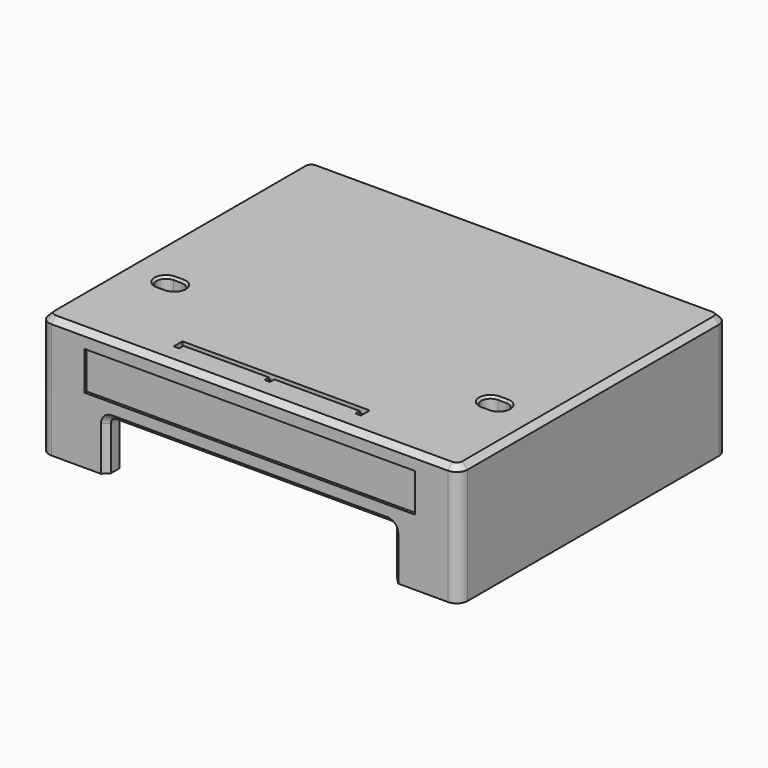
from build123d import *

# Parameters (mm, degrees)
SKETCH041_W              = 76
SKETCH041_H              = 61
PAD012_DEPTH             = 22
POCKET029_DEPTH          = 20
PAD013_DEPTH             = 17
POCKET030_DEPTH          = 22.001
SKETCH045_W              = 52
SKETCH045_H              = 3
PAD014_DEPTH             = 13
SKETCH046_W              = 19.5
SKETCH046_H              = 3
PAD015_DEPTH             = 2
FILLET007014_R           = 2
FILLET007015_R           = 1
POCKET041_DEPTH          = 5
CHAMFER013004014019_SIZE = 1
CHAMFER013004014020_SIZE = 1
CHAMFER013004014021_SIZE = 0.4
POCKET042_DEPTH          = 1
SKETCH061_W              = 60
SKETCH061_H              = 7
POCKET043_DEPTH          = 0.5


with BuildPart() as part:
    # Sketch041 → Pad012 (new body)
    with BuildSketch(Plane.XY):
        with Locations((0, 2.5)):
            Rectangle(SKETCH041_W, SKETCH041_H)
    extrude(amount=PAD012_DEPTH)

    # Sketch042 (on DatumPlane) → Pocket029 (cut)
    with BuildSketch(Plane.XY):
        Polygon((-26, -28), (-26, -25), (-35, -25), (-35, 30), (35, 30), (35, -25), (26, -25), (26, -28), align=None)
    extrude(amount=POCKET029_DEPTH, mode=Mode.SUBTRACT)

    # Sketch043 (on DatumPlane) → Pad013 (join)
    with BuildSketch(Plane.XY.offset(22)):
        with BuildLine():
            ThreePointArc((-28.71, -12.7075), (-25.21, -9.2075), (-28.71, -5.7075))
            Line((-28.71, -5.7075), (-35.71, -5.7075))
            Line((-35.71, -5.7075), (-35.71, -12.7075))
            Line((-35.71, -12.7075), (-28.71, -12.7075))
        make_face()
        with BuildLine():
            ThreePointArc((28.71, -5.7075), (25.21, -9.2075), (28.71, -12.7075))
            Line((35.71, -12.7075), (28.71, -12.7075))
            Line((35.71, -5.7075), (35.71, -12.7075))
            Line((28.71, -5.7075), (35.71, -5.7075))
        make_face()
    extrude(amount=-PAD013_DEPTH)

    # Sketch044 (on DatumPlane) → Pocket030 (cut, through all)
    with BuildSketch(Plane.XY.offset(22)):
        with BuildLine():
            ThreePointArc((-30.21, -7.5075), (-31.91, -9.2075), (-30.21, -10.9075))
            Line((-30.21, -10.9075), (-28.71, -10.9075))
            ThreePointArc((-28.71, -10.9075), (-27.01, -9.2075), (-28.71, -7.5075))
            Line((-30.21, -7.5075), (-28.71, -7.5075))
        make_face()
        with BuildLine():
            ThreePointArc((28.71, -7.5075), (27.01, -9.2075), (28.71, -10.9075))
            Line((28.71, -10.9075), (30.21, -10.9075))
            ThreePointArc((30.21, -10.9075), (31.91, -9.2075), (30.21, -7.5075))
            Line((28.71, -7.5075), (30.21, -7.5075))
        make_face()
    extrude(amount=-POCKET030_DEPTH, mode=Mode.SUBTRACT)

    # Sketch045 (on DatumPlane) → Pad014 (join)
    with BuildSketch(Plane.XY.offset(22)):
        with Locations((0, -26.5)):
            Rectangle(SKETCH045_W, SKETCH045_H)
    extrude(amount=-PAD014_DEPTH)

    # Sketch046 (on DatumPlane) → Pad015 (join)
    with BuildSketch(Plane.XY):
        with Locations((0, 31.5)):
            Rectangle(SKETCH046_W, SKETCH046_H)
    extrude(amount=-PAD015_DEPTH)

    # Fillet007014
    fillet007014_edges = [part.edges().sort_by_distance(p)[0] for p in [
        (-38, -28, 11),
        (38, -28, 11),
        (38, 33, 11),
        (-38, 33, 11),
    ]]
    fillet(fillet007014_edges, radius=FILLET007014_R)

    # Fillet007015
    fillet007015_edges = [part.edges().sort_by_distance(p)[0] for p in [
        (26, -26.5, 9),
        (-26, -26.5, 9),
        (35, -25, 10),
        (35, -12.7075, 12.5),
        (35, -5.7075, 12.5),
        (35, 30, 10),
        (-35, 30, 10),
        (-35, -5.7075, 12.5),
        (-35, -12.7075, 12.5),
        (-35, -25, 10),
    ]]
    fillet(fillet007015_edges, radius=FILLET007015_R)

    # Sketch059 (on Face10 of Fillet007015) → Pocket041 (cut)
    with BuildSketch(Plane(origin=(-38, 0, 0), x_dir=(0, -1, 0), z_dir=(-1, 0, 0))):
        with BuildLine():
            ThreePointArc((-20, 3), (-24.5, 7.5), (-29, 3))
            Line((-29, 3), (-29, 0))
            Line((-29, 0), (-20, 0))
            Line((-20, 0), (-20, 3))
        make_face()
    extrude(amount=-POCKET041_DEPTH, mode=Mode.SUBTRACT)

    # Chamfer013004014019
    chamfer013004014019_edges = [part.edges().sort_by_distance(p)[0] for p in [
        (-38, 29, 1.5),
        (-38, 24.5, 7.5),
        (-38, 20, 1.5),
    ]]
    chamfer(chamfer013004014019_edges, length=CHAMFER013004014019_SIZE)

    # Chamfer013004014020
    chamfer013004014020_edges = [part.edges().sort_by_distance(p)[0] for p in [
        (-38, 2.5, 22),
        (-37.414214, 32.414214, 22),
        (0, 33, 22),
        (37.414214, 32.414214, 22),
        (38, 2.5, 22),
        (37.414214, -27.414214, 22),
        (0, -28, 22),
        (-37.414214, -27.414214, 22),
        (-26, -28, 4),
        (-25.707107, -28, 8.707107),
        (0, -28, 9),
        (25.707107, -28, 8.707107),
        (26, -28, 4),
    ]]
    chamfer(chamfer013004014020_edges, length=CHAMFER013004014020_SIZE)

    # Chamfer013004014021
    chamfer013004014021_edges = [part.edges().sort_by_distance(p)[0] for p in [
        (-31.91, -9.2075, 22),
        (-29.46, -7.5075, 22),
        (-27.01, -9.2075, 22),
        (-29.46, -10.9075, 22),
        (29.46, -7.5075, 22),
        (27.01, -9.2075, 22),
        (31.91, -9.2075, 22),
        (29.46, -10.9075, 22),
    ]]
    chamfer(chamfer013004014021_edges, length=CHAMFER013004014021_SIZE)

    # Sketch060 (on DatumPlane) → Pocket042 (cut)
    with BuildSketch(Plane.XY.offset(22)):
        Polygon((-17, -24), (-17, -22), (17, -22), (17, -24), (16, -24), (16, -23), (0.5, -23), (0.5, -24), (-0.5, -24), (-0.5, -23), (-16, -23), (-16, -24), align=None)
    extrude(amount=-POCKET042_DEPTH, mode=Mode.SUBTRACT)

    # Sketch061 (on Face33 of Pocket042) → Pocket043 (cut)
    with BuildSketch(Plane.XZ.offset(28)):
        with Locations((0, 15.5)):
            Rectangle(SKETCH061_W, SKETCH061_H)
    extrude(amount=-POCKET043_DEPTH, mode=Mode.SUBTRACT)


with BuildPart() as part_1:
    # Body002005 placement: moved
    add(part.part.moved(Location((0, 0, 8))))


solid = part_1.part
